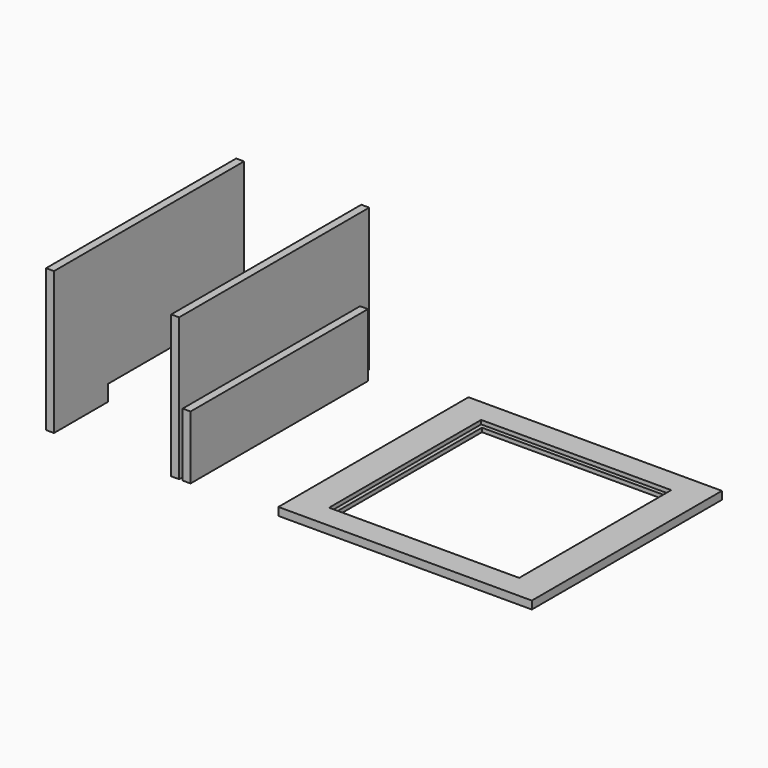
from build123d import *

# Parameters (mm, degrees)
F0_W      = 12.7
F0_H      = 381
F1_DEPTH  = 228.6
F2_W      = 406.4
F2_H      = 381
F3_DEPTH  = 12.7
F4_W      = 304.8
F4_H      = 304.8
F5_DEPTH  = 6.35
F6_W      = 292.1
F6_H      = 292.1
F7_DEPTH  = 12.701
F9_W      = 165.1
F9_H      = 50.8
F10_DEPTH = 25.4
F11_W     = 12.7
F11_H     = 355.6
F12_DEPTH = 101.6


with BuildPart() as f1:
    # F0 (on Top) → F1 (new body)
    with BuildSketch(Plane.XY):
        with Locations((6.35, 190.5)):
            Rectangle(F0_W, F0_H)
    extrude(amount=F1_DEPTH)


with BuildPart() as f3:
    # F2 (on Top) → F3 (new body)
    with BuildSketch(Plane.XY):
        with Locations((375.046956, 190.5)):
            Rectangle(F2_W, F2_H)
    extrude(amount=F3_DEPTH)

    # F4 (on face) → F5 (cut)
    with BuildSketch(Plane.XY.offset(12.7)):
        with Locations((375.046956, 190.5)):
            Rectangle(F4_W, F4_H)
    extrude(amount=-F5_DEPTH, mode=Mode.SUBTRACT)

    # F6 (on face) → F7 (cut, through all)
    with BuildSketch(Plane.XY.offset(12.7)):
        with Locations((375.046956, 190.5)):
            Rectangle(F6_W, F6_H)
    extrude(amount=-F7_DEPTH, mode=Mode.SUBTRACT)


with BuildPart() as f8_1:
    # F8: copy of F1
    add(f1.part.moved(Location((-200.66, 0, 0))))

    # F9 (on face) → F10 (cut)
    with BuildSketch(Plane(origin=(-200.66, 0, 0), x_dir=(0, -1, 0), z_dir=(-1, 0, 0))):
        with Locations((-190.5, 0)):
            Rectangle(F9_W, F9_H)
    extrude(amount=-F10_DEPTH, mode=Mode.SUBTRACT)


with BuildPart() as f12:
    # F11 (on Top) → F12 (new body)
    with BuildSketch(Plane.XY):
        with Locations((24.657567, 177.8)):
            Rectangle(F11_W, F11_H)
    extrude(amount=F12_DEPTH)


solid = Compound([f1.part, f3.part, f8_1.part, f12.part])
